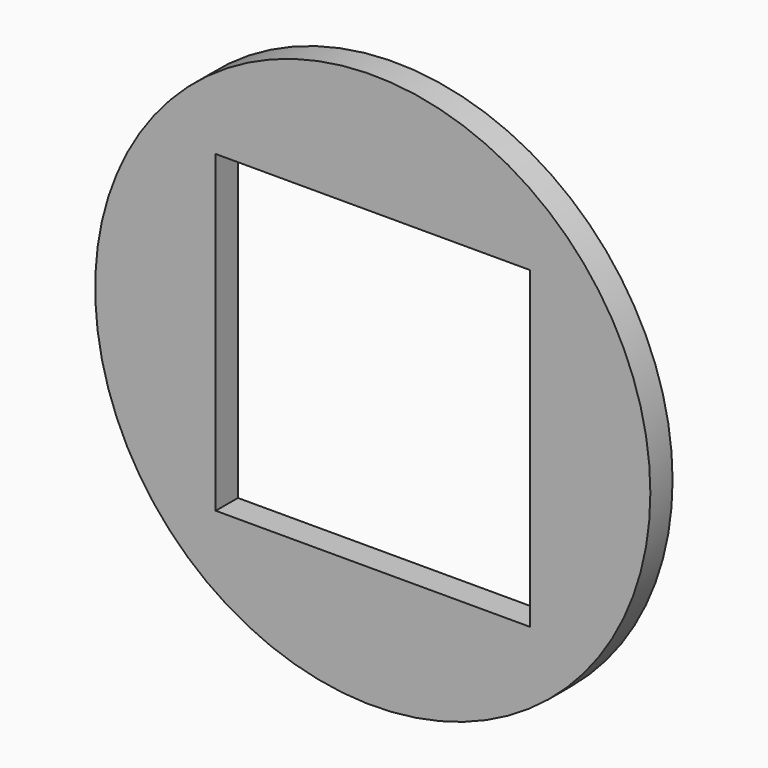
from build123d import *

# Parameters (mm, degrees)
F0_R     = 50
F0_W     = 56.568542
F0_H     = 56.568542
F1_DEPTH = 5


with BuildPart() as f1:
    # F0 (on Front) → F1 (new body)
    with BuildSketch(Plane.XZ):
        Circle(F0_R)
        Rectangle(F0_W, F0_H, mode=Mode.SUBTRACT)
    extrude(amount=F1_DEPTH)


solid = f1.part
